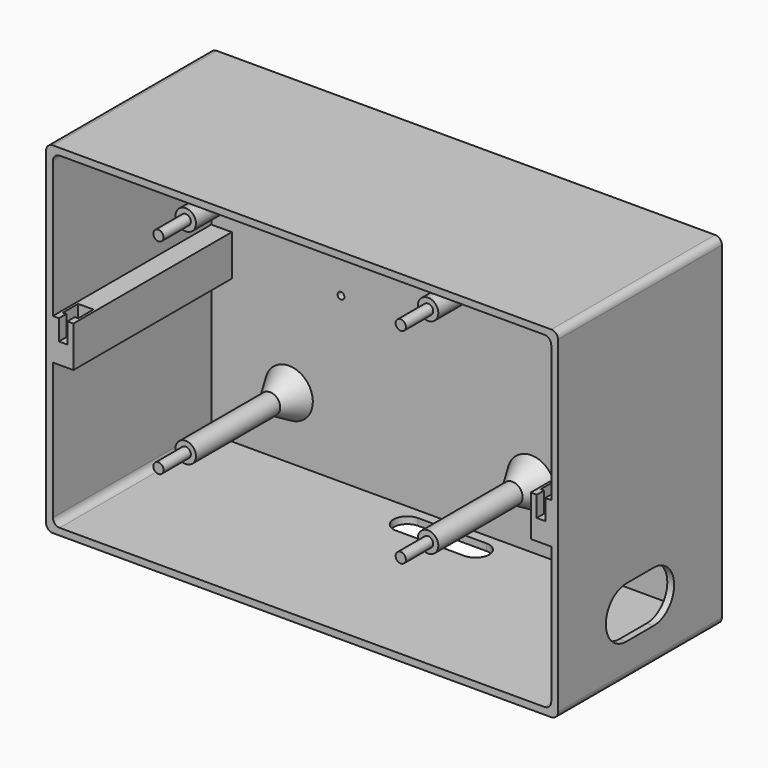
from build123d import *

# Parameters (mm, degrees)
SKETCH_W        = 150
SKETCH_H        = 100
PAD_DEPTH       = 60
POCKET_DEPTH    = 58
SKETCH002_R     = 3
PAD001_DEPTH    = 37.8
POCKET001_DEPTH = 2
POCKET002_DEPTH = 2
SKETCH007_R     = 1
POCKET003_DEPTH = 2.001
SKETCH009_R     = 1.5
PAD003_DEPTH    = 10
POCKET004_DEPTH = 6
POCKET005_DEPTH = 6
CHAMFER_ANGLE   = 60
CHAMFER_SIZE    = 4
FILLET_R        = 2
FILLET001_R     = 2


with BuildPart() as part:
    # Sketch → Pad (new body)
    with BuildSketch(Plane.XZ):
        with Locations((75, 50)):
            Rectangle(SKETCH_W, SKETCH_H)
    extrude(amount=PAD_DEPTH)

    # Sketch001 (on Face6 of Pad) → Pocket (cut)
    with BuildSketch(Plane.XZ.offset(60)):
        Polygon((2, 98), (148, 98), (148, 56), (142, 56), (142, 44), (148, 44), (148, 2), (2, 2), (2, 44), (8, 44), (8, 56), (2, 56), align=None)
    extrude(amount=-POCKET_DEPTH, mode=Mode.SUBTRACT)

    # Sketch002 (on Face19 of Pocket) → Pad001 (join)
    with BuildSketch(Plane.XZ.offset(2)):
        with Locations((24.75, 80)):
            Circle(SKETCH002_R)
        with Locations((95.75, 80)):
            Circle(SKETCH002_R)
        with Locations((24.75, 20)):
            Circle(SKETCH002_R)
        with Locations((95.75, 20)):
            Circle(SKETCH002_R)
    extrude(amount=PAD001_DEPTH)

    # Sketch005 → Pocket001 (cut)
    with BuildSketch(Plane(origin=(0, 0, 0), x_dir=(1, 0, 0), z_dir=(0, 0, -1))):
        with BuildLine():
            ThreePointArc((65, 13), (61, 9), (65, 5))
            Line((65, 5), (85, 5))
            ThreePointArc((85, 5), (89, 9), (85, 13))
            Line((65, 13), (85, 13))
        make_face()
    extrude(amount=-POCKET001_DEPTH, mode=Mode.SUBTRACT)

    # Sketch006 (on Face5 of Pocket001) → Pocket002 (cut)
    with BuildSketch(Plane(origin=(150, 0, 0), x_dir=(0, 0, 1), z_dir=(1, 0, 0))):
        with BuildLine():
            ThreePointArc((25, 35), (17.5, 42.5), (10, 35))
            Line((10, 35), (10, 25))
            ThreePointArc((10, 25), (17.5, 17.5), (25, 25))
            Line((25, 35), (25, 25))
        make_face()
    extrude(amount=-POCKET002_DEPTH, mode=Mode.SUBTRACT)

    # Sketch007 (on Face27 of Pocket002) → Pocket003 (cut, through all)
    with BuildSketch(Plane.XZ.offset(2)):
        with Locations((40, 50)):
            Circle(SKETCH007_R)
        with Locations((110, 50)):
            Circle(SKETCH007_R)
    extrude(amount=-POCKET003_DEPTH, mode=Mode.SUBTRACT)

    # Sketch009 (on Face35 of Pocket003) → Pad003 (join)
    with BuildSketch(Plane.XZ.offset(39.8)):
        with Locations((24.75, 80)):
            Circle(SKETCH009_R)
        with Locations((95.75, 80)):
            Circle(SKETCH009_R)
        with Locations((24.75, 20)):
            Circle(SKETCH009_R)
        with Locations((95.75, 20)):
            Circle(SKETCH009_R)
    extrude(amount=PAD003_DEPTH)

    # Sketch010 (on Face14 of Pad003) → Pocket004 (cut)
    with BuildSketch(Plane(origin=(0, 0, 56), x_dir=(-1, 0, 0), z_dir=(0, 0, 1))):
        Polygon((-3.75, 60), (-3.75, 57.3), (-2.75, 57.3), (-2.75, 51.7), (-7.25, 51.7), (-7.25, 57.3), (-6.25, 57.3), (-6.25, 60), align=None)
    extrude(amount=-POCKET004_DEPTH, mode=Mode.SUBTRACT)

    # Sketch011 (on Face24 of Pocket004) → Pocket005 (cut)
    with BuildSketch(Plane(origin=(0, 0, 56), x_dir=(-1, 0, 0), z_dir=(0, 0, 1))):
        Polygon((-143.75, 60), (-146.25, 60), (-146.25, 57.3), (-147.25, 57.3), (-147.25, 51.7), (-142.74998, 51.7), (-142.75, 57.3), (-143.75, 57.3), align=None)
    extrude(amount=-POCKET005_DEPTH, mode=Mode.SUBTRACT)

    # Chamfer
    chamfer_edges = [part.edges().sort_by_distance(p)[0] for p in [
        (21.75, -2, 80),
        (92.75, -2, 80),
        (92.75, -2, 20),
        (21.75, -2, 20),
    ]]
    chamfer_side = part.faces().sort_by_distance((75.121299, -2, 50))[0]
    chamfer(chamfer_edges, length=CHAMFER_SIZE, angle=CHAMFER_ANGLE, reference=chamfer_side)

    # Fillet
    fillet_edges = [part.edges().sort_by_distance(p)[0] for p in [
        (2, -31, 98),
        (2, -31, 2),
        (148, -31, 2),
        (148, -31, 98),
    ]]
    fillet(fillet_edges, radius=FILLET_R)

    # Fillet001
    fillet001_edges = [part.edges().sort_by_distance(p)[0] for p in [
        (0, -30, 0),
        (0, -30, 100),
        (150, -30, 100),
        (150, -30, 0),
    ]]
    fillet(fillet001_edges, radius=FILLET001_R)


solid = part.part
